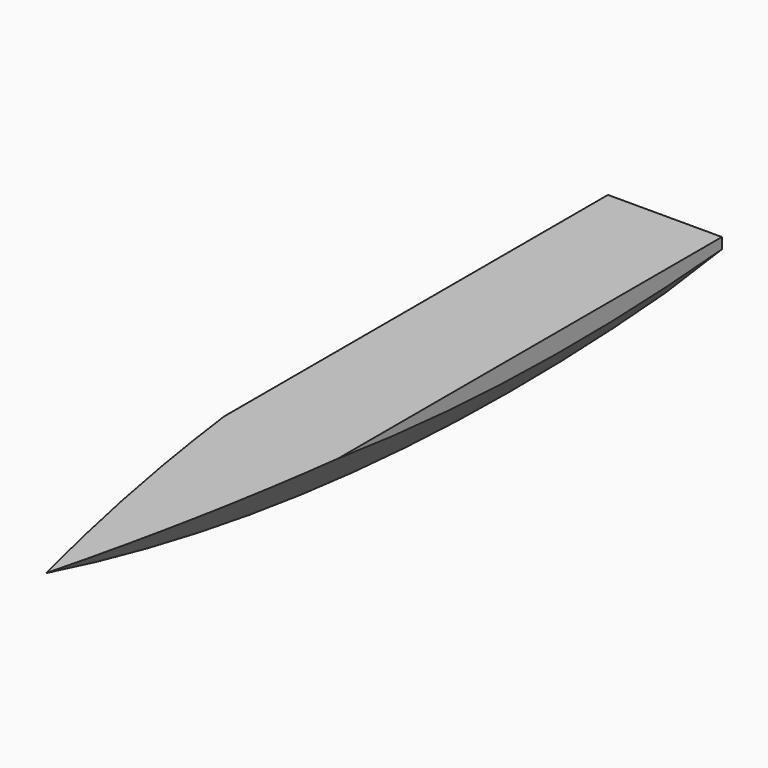
from build123d import *

# Parameters (mm, degrees)
POCKET008003002_DEPTH = 5


with BuildPart() as obj1:
    # Sketch024 → Revolution002 (revolve)
    with BuildSketch(Plane.XZ):
        Polygon((0, 0), (0, -60), (1.5, -58.5), (1.5, 0), align=None)
    revolve(axis=Axis((0, 0, 0), (1, 0, 0)))


with BuildPart() as slidergroove:
    # Part__Mirroring006: instance of obj1
    add(obj1.part.mirror(Plane(origin=(0, 0, 0), x_dir=(0, -1, 0), z_dir=(1, 0, 0))))

    # Fusion001: union obj1
    add(obj1.part)

    # Sketch025 → Pocket008003002 (cut)
    with BuildSketch(Plane(origin=(-1.5, 0, 0), x_dir=(0, -1, 0), z_dir=(-1, 0, 0))):
        Polygon((-100, 100), (100, 100), (100, -58), (-5, -58), (-5, -66), (-100, -66), align=None)
    extrude(amount=-POCKET008003002_DEPTH, mode=Mode.SUBTRACT)


solid = slidergroove.part
